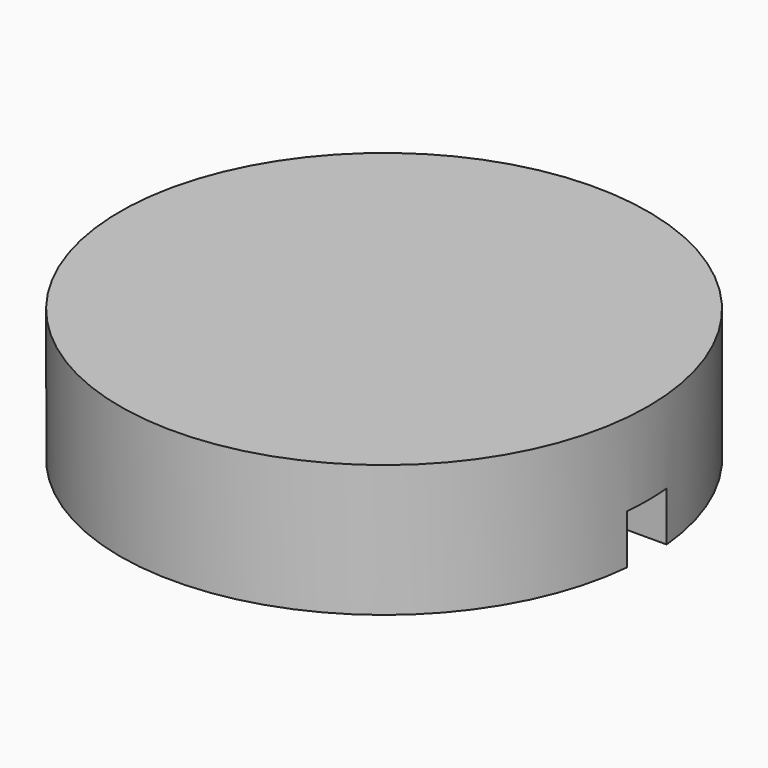
from build123d import *

# Parameters (mm, degrees)
SKETCH_R     = 8
PAD_DEPTH    = 4
SKETCH001_W  = 16
SKETCH001_H  = 1.5
POCKET_DEPTH = 1.5


with BuildPart() as part:
    # Sketch → Pad (new body)
    with BuildSketch(Plane.XY):
        Circle(SKETCH_R)
    extrude(amount=PAD_DEPTH)

    # Sketch001 → Pocket (cut)
    with BuildSketch(Plane.XY):
        Rectangle(SKETCH001_W, SKETCH001_H)
    extrude(amount=POCKET_DEPTH, mode=Mode.SUBTRACT)


solid = part.part
